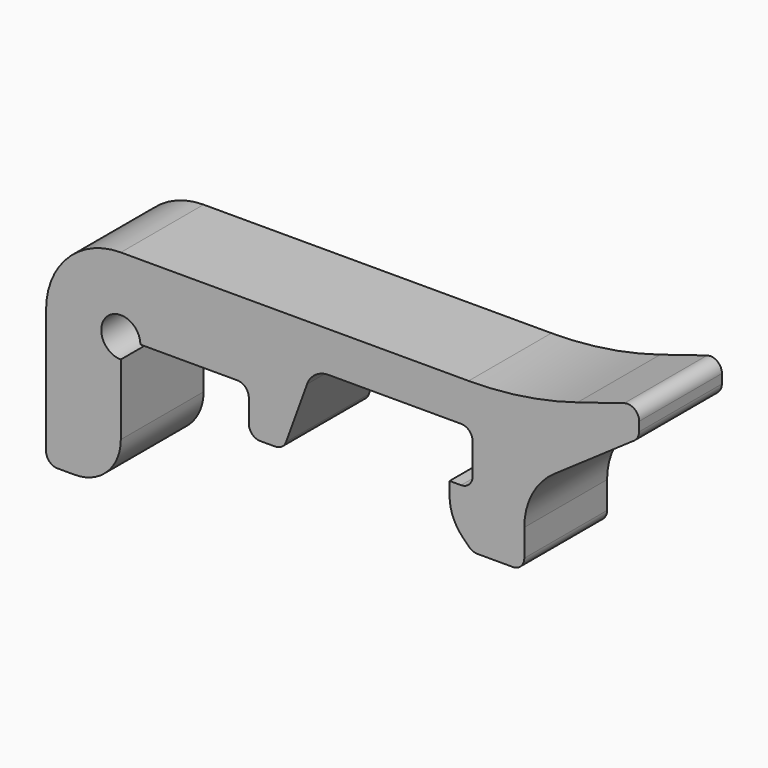
from build123d import *

# Parameters (mm, degrees)
PAD010_DEPTH    = 9
FILLET029_R     = 6.5
FILLET030_R     = 4
FILLET031_R     = 1
FILLET032_R     = 1
FILLET033_R     = 2
FILLET034_R     = 4
SKETCH043_R     = 1.7
POCKET021_DEPTH = 9
FILLET040_R     = 6
FILLET041_R     = 32
FILLET042_R     = 1


with BuildPart() as part:
    # Sketch040 → Pad010 (new body)
    with BuildSketch(Plane.XZ):
        Polygon((-18.1, 39.4), (-18.1, 21.0678404338), (-11.6, 21.0678404338), (-11.6, 32.9), (-0.4644712743, 32.9), (-0.4644712743, 28.9), (2.5355287257, 28.9), (5.0833203655, 35.9), (19, 35.9), (19, 31.2), (17, 31.2), (17, 28.4), (19, 26.4), (23.5, 26.4), (23.5, 32.9), (33.481928, 39.806227), (33.5, 42.499247), (23.5, 39.4), align=None)
    extrude(amount=-PAD010_DEPTH)

    # Fillet029
    fillet029_edges = [part.edges().sort_by_distance(p)[0] for p in [
        (-18.1, 4.5, 39.4),
    ]]
    fillet(fillet029_edges, radius=FILLET029_R)

    # Fillet030
    fillet030_edges = [part.edges().sort_by_distance(p)[0] for p in [
        (-11.6, 4.5, 21.06784),
    ]]
    fillet(fillet030_edges, radius=FILLET030_R)

    # Fillet031
    fillet031_edges = [part.edges().sort_by_distance(p)[0] for p in [
        (-0.464471, 4.5, 28.9),
    ]]
    fillet(fillet031_edges, radius=FILLET031_R)

    # Fillet032
    fillet032_edges = [part.edges().sort_by_distance(p)[0] for p in [
        (-0.464471, 4.5, 32.9),
        (19, 4.5, 35.9),
        (2.535529, 4.5, 28.9),
        (23.5, 4.5, 26.4),
        (19, 4.5, 26.4),
        (-18.1, 4.5, 21.06784),
        (19, 4.5, 31.2),
    ]]
    fillet(fillet032_edges, radius=FILLET032_R)

    # Fillet033
    fillet033_edges = [part.edges().sort_by_distance(p)[0] for p in [
        (5.08332, 4.5, 35.9),
    ]]
    fillet(fillet033_edges, radius=FILLET033_R)

    # Fillet034
    fillet034_edges = [part.edges().sort_by_distance(p)[0] for p in [
        (17, 4.5, 28.4),
    ]]
    fillet(fillet034_edges, radius=FILLET034_R)

    # Sketch043 (on Face1 of Fillet033) → Pocket021 (cut)
    with BuildSketch(Plane.XZ):
        with Locations((-11.6, 32.9)):
            Circle(SKETCH043_R)
    extrude(amount=-POCKET021_DEPTH, mode=Mode.SUBTRACT)

    # Fillet040
    fillet040_edges = [part.edges().sort_by_distance(p)[0] for p in [
        (23.5, 4.5, 32.9),
    ]]
    fillet(fillet040_edges, radius=FILLET040_R)

    # Fillet041
    fillet041_edges = [part.edges().sort_by_distance(p)[0] for p in [
        (23.5, 4.5, 39.4),
    ]]
    fillet(fillet041_edges, radius=FILLET041_R)

    # Fillet042
    fillet042_edges = [part.edges().sort_by_distance(p)[0] for p in [
        (33.481928, 4.5, 39.806227),
        (33.5, 4.5, 42.499247),
    ]]
    fillet(fillet042_edges, radius=FILLET042_R)


with BuildPart() as part_1:
    # Body008 placement: moved
    add(part.part.moved(Location((-0.4, 0, 0.1))))


solid = part_1.part
